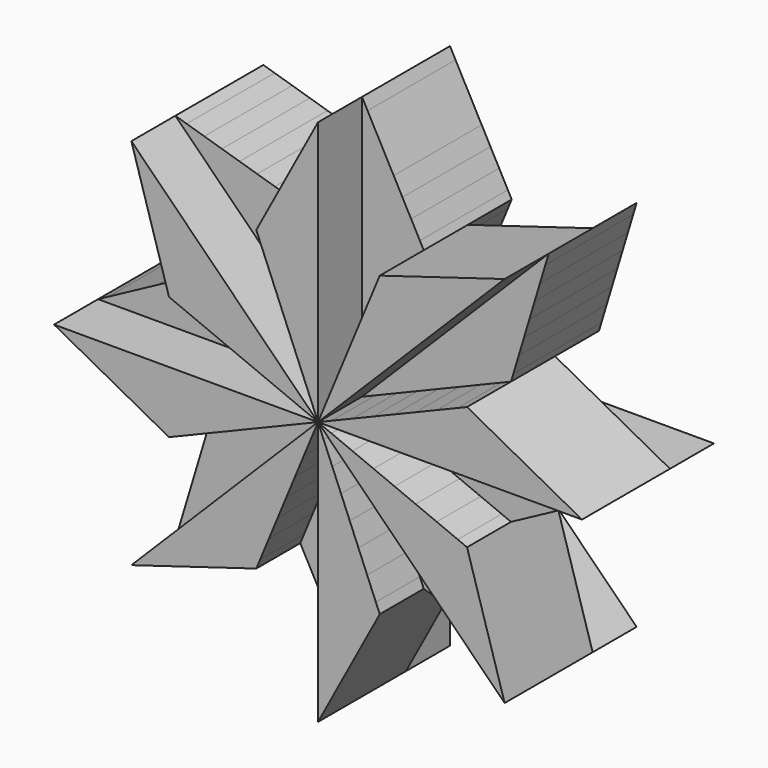
from build123d import *

# Parameters (mm, degrees)
F1_DEPTH = 7.5
F2_DEPTH = 15


with BuildPart() as f1:
    # F0 (on Front) → F1 (new body, symmetric)
    with BuildSketch(Plane.XZ):
        Polygon((24.9938242193, 23.9216168059), (1.8303725462, 0.7581651328), (4.7007746248, 1.9471246032), (24.2692816152, 21.5156315937), align=None)
        Polygon((25.4558441227, 25.4558441227), (0, 0), (1.8303725462, 0.7581651328), (24.9938242193, 23.9216168059), align=None)
        Polygon((24.2692816152, 21.5156315937), (4.7007746248, 1.9471246032), (7.5711767033, 3.1360840736), (23.5447390112, 19.1096463815), align=None)
        Polygon((16.182382939, 6.7029624849), (19.0527850176, 7.8919219553), (20.6465685949, 9.4857055326), (21.371111199, 11.8916907448), align=None)
        Polygon((22.8201964071, 16.7036611693), (10.4415787819, 4.325043544), (13.3119808605, 5.5140030145), (22.0956538031, 14.2976759571), align=None)
        Polygon((23.5447390112, 19.1096463815), (7.5711767033, 3.1360840736), (10.4415787819, 4.325043544), (22.8201964071, 16.7036611693), align=None)
        Polygon((13.3119808605, 5.5140030145), (16.182382939, 6.7029624849), (21.371111199, 11.8916907448), (22.0956538031, 14.2976759571), align=None)
        Polygon((19.0527850176, 7.8919219553), (20.3253497152, 8.419035512), (20.6465685949, 9.4857055326), align=None)
    extrude(amount=F1_DEPTH, both=True)


with BuildPart() as f1b:
    # F0 (on Front) → F1, piece 2 (new body, symmetric)
    with BuildSketch(Plane.XZ):
        Polygon((-23.9216168059, 24.9938242193), (-0.7581651328, 1.8303725462), (-1.9471246032, 4.7007746248), (-21.5156315937, 24.2692816152), align=None)
        Polygon((-5.5140030145, 13.3119808605), (-6.7029624849, 16.182382939), (-11.8916907448, 21.371111199), (-14.2976759571, 22.0956538031), align=None)
        Polygon((-6.7029624849, 16.182382939), (-7.8919219553, 19.0527850176), (-9.4857055326, 20.6465685949), (-11.8916907448, 21.371111199), align=None)
        Polygon((-25.4558441227, 25.4558441227), (0, 0), (-0.7581651328, 1.8303725462), (-23.9216168059, 24.9938242193), align=None)
        Polygon((-19.1096463815, 23.5447390112), (-3.1360840736, 7.5711767033), (-4.325043544, 10.4415787819), (-16.7036611693, 22.8201964071), align=None)
        Polygon((-21.5156315937, 24.2692816152), (-1.9471246032, 4.7007746248), (-3.1360840736, 7.5711767033), (-19.1096463815, 23.5447390112), align=None)
        Polygon((-16.7036611693, 22.8201964071), (-4.325043544, 10.4415787819), (-5.5140030145, 13.3119808605), (-14.2976759571, 22.0956538031), align=None)
        Polygon((-7.8919219553, 19.0527850176), (-8.419035512, 20.3253497152), (-9.4857055326, 20.6465685949), align=None)
    extrude(amount=F1_DEPTH, both=True)


with BuildPart() as f1c:
    # F0 (on Front) → F1, piece 3 (new body, symmetric)
    with BuildSketch(Plane.XZ):
        Polygon((-24.9938242193, -23.9216168059), (-1.8303725462, -0.7581651328), (-4.7007746248, -1.9471246032), (-24.2692816152, -21.5156315937), align=None)
        Polygon((-22.8201964071, -16.7036611693), (-10.4415787819, -4.325043544), (-13.3119808605, -5.5140030145), (-22.0956538031, -14.2976759571), align=None)
        Polygon((-13.3119808605, -5.5140030145), (-16.182382939, -6.7029624849), (-21.371111199, -11.8916907448), (-22.0956538031, -14.2976759571), align=None)
        Polygon((-23.5447390112, -19.1096463815), (-7.5711767033, -3.1360840736), (-10.4415787819, -4.325043544), (-22.8201964071, -16.7036611693), align=None)
        Polygon((-24.2692816152, -21.5156315937), (-4.7007746248, -1.9471246032), (-7.5711767033, -3.1360840736), (-23.5447390112, -19.1096463815), align=None)
        Polygon((-16.182382939, -6.7029624849), (-19.0527850176, -7.8919219553), (-20.6465685949, -9.4857055326), (-21.371111199, -11.8916907448), align=None)
        Polygon((-25.4558441227, -25.4558441227), (0, 0), (-1.8303725462, -0.7581651328), (-24.9938242193, -23.9216168059), align=None)
        Polygon((-19.0527850176, -7.8919219553), (-20.3253497152, -8.419035512), (-20.6465685949, -9.4857055326), align=None)
    extrude(amount=F1_DEPTH, both=True)


with BuildPart() as f1d:
    # F0 (on Front) → F1, piece 4 (new body, symmetric)
    with BuildSketch(Plane.XZ):
        Polygon((13.3119808605, -5.5140030145), (16.182382939, -6.7029624849), (23.5203528157, -6.7029624849), (25.7339702633, -5.5140030145), align=None)
        Polygon((36, 0), (0, 0), (1.8303725462, -0.7581651328), (34.5884400537, -0.7581651328), align=None)
        Polygon((32.3748226061, -1.9471246032), (4.7007746248, -1.9471246032), (7.5711767033, -3.1360840736), (30.1612051585, -3.1360840736), align=None)
        Polygon((34.5884400537, -0.7581651328), (1.8303725462, -0.7581651328), (4.7007746248, -1.9471246032), (32.3748226061, -1.9471246032), align=None)
        Polygon((27.9475877109, -4.325043544), (10.4415787819, -4.325043544), (13.3119808605, -5.5140030145), (25.7339702633, -5.5140030145), align=None)
        Polygon((16.182382939, -6.7029624849), (19.0527850176, -7.8919219553), (21.3067353682, -7.8919219553), (23.5203528157, -6.7029624849), align=None)
        Polygon((30.1612051585, -3.1360840736), (7.5711767033, -3.1360840736), (10.4415787819, -4.325043544), (27.9475877109, -4.325043544), align=None)
        Polygon((19.0527850176, -7.8919219553), (20.3253497152, -8.419035512), (21.3067353682, -7.8919219553), align=None)
    extrude(amount=F1_DEPTH, both=True)


with BuildPart() as f1e:
    # F0 (on Front) → F1, piece 5 (new body, symmetric)
    with BuildSketch(Plane.XZ):
        Polygon((-32.3748226061, 1.9471246032), (-4.7007746248, 1.9471246032), (-7.5711767033, 3.1360840736), (-30.1612051585, 3.1360840736), align=None)
        Polygon((-30.1612051585, 3.1360840736), (-7.5711767033, 3.1360840736), (-10.4415787819, 4.325043544), (-27.9475877109, 4.325043544), align=None)
        Polygon((-13.3119808605, 5.5140030145), (-16.182382939, 6.7029624849), (-23.5203528157, 6.7029624849), (-25.7339702633, 5.5140030145), align=None)
        Polygon((-27.9475877109, 4.325043544), (-10.4415787819, 4.325043544), (-13.3119808605, 5.5140030145), (-25.7339702633, 5.5140030145), align=None)
        Polygon((-34.5884400537, 0.7581651328), (-1.8303725462, 0.7581651328), (-4.7007746248, 1.9471246032), (-32.3748226061, 1.9471246032), align=None)
        Polygon((-16.182382939, 6.7029624849), (-19.0527850176, 7.8919219553), (-21.3067353682, 7.8919219553), (-23.5203528157, 6.7029624849), align=None)
        Polygon((-36, 0), (0, 0), (-1.8303725462, 0.7581651328), (-34.5884400537, 0.7581651328), align=None)
        Polygon((-19.0527850176, 7.8919219553), (-20.3253497152, 8.419035512), (-21.3067353682, 7.8919219553), align=None)
    extrude(amount=F1_DEPTH, both=True)


with BuildPart() as f1f:
    # F0 (on Front) → F1, piece 6 (new body, symmetric)
    with BuildSketch(Plane.XZ):
        Polygon((5.5140030145, -13.3119808605), (6.7029624849, -16.182382939), (11.8916907448, -21.371111199), (14.2976759571, -22.0956538031), align=None)
        Polygon((6.7029624849, -16.182382939), (7.8919219553, -19.0527850176), (9.4857055326, -20.6465685949), (11.8916907448, -21.371111199), align=None)
        Polygon((16.7036611693, -22.8201964071), (4.325043544, -10.4415787819), (5.5140030145, -13.3119808605), (14.2976759571, -22.0956538031), align=None)
        Polygon((25.4558441227, -25.4558441227), (0, 0), (0.7581651328, -1.8303725462), (23.9216168059, -24.9938242193), align=None)
        Polygon((19.1096463815, -23.5447390112), (3.1360840736, -7.5711767033), (4.325043544, -10.4415787819), (16.7036611693, -22.8201964071), align=None)
        Polygon((23.9216168059, -24.9938242193), (0.7581651328, -1.8303725462), (1.9471246032, -4.7007746248), (21.5156315937, -24.2692816152), align=None)
        Polygon((21.5156315937, -24.2692816152), (1.9471246032, -4.7007746248), (3.1360840736, -7.5711767033), (19.1096463815, -23.5447390112), align=None)
        Polygon((7.8919219553, -19.0527850176), (8.419035512, -20.3253497152), (9.4857055326, -20.6465685949), align=None)
    extrude(amount=F1_DEPTH, both=True)


with BuildPart() as f1g:
    # F0 (on Front) → F1, piece 7 (new body, symmetric)
    with BuildSketch(Plane.XZ):
        Polygon((-4.325043544, -27.9475877109), (-4.325043544, -10.4415787819), (-5.5140030145, -13.3119808605), (-5.5140030145, -25.7339702633), align=None)
        Polygon((-1.9471246032, -32.3748226061), (-1.9471246032, -4.7007746248), (-3.1360840736, -7.5711767033), (-3.1360840736, -30.1612051585), align=None)
        Polygon((0, -36), (0, 0), (-0.7581651328, -1.8303725462), (-0.7581651328, -34.5884400537), align=None)
        Polygon((-6.7029624849, -16.182382939), (-7.8919219553, -19.0527850176), (-7.8919219553, -21.3067353682), (-6.7029624849, -23.5203528157), align=None)
        Polygon((-5.5140030145, -13.3119808605), (-6.7029624849, -16.182382939), (-6.7029624849, -23.5203528157), (-5.5140030145, -25.7339702633), align=None)
        Polygon((-3.1360840736, -30.1612051585), (-3.1360840736, -7.5711767033), (-4.325043544, -10.4415787819), (-4.325043544, -27.9475877109), align=None)
        Polygon((-0.7581651328, -34.5884400537), (-0.7581651328, -1.8303725462), (-1.9471246032, -4.7007746248), (-1.9471246032, -32.3748226061), align=None)
        Polygon((-7.8919219553, -19.0527850176), (-8.419035512, -20.3253497152), (-7.8919219553, -21.3067353682), align=None)
    extrude(amount=F1_DEPTH, both=True)


with BuildPart() as f1h:
    # F0 (on Front) → F1, piece 8 (new body, symmetric)
    with BuildSketch(Plane.XZ):
        Polygon((6.7029624849, 16.182382939), (7.8919219553, 19.0527850176), (7.8919219553, 21.3067353682), (6.7029624849, 23.5203528157), align=None)
        Polygon((4.325043544, 27.9475877109), (4.325043544, 10.4415787819), (5.5140030145, 13.3119808605), (5.5140030145, 25.7339702633), align=None)
        Polygon((5.5140030145, 13.3119808605), (6.7029624849, 16.182382939), (6.7029624849, 23.5203528157), (5.5140030145, 25.7339702633), align=None)
        Polygon((0.7581651328, 34.5884400537), (0.7581651328, 1.8303725462), (1.9471246032, 4.7007746248), (1.9471246032, 32.3748226061), align=None)
        Polygon((1.9471246032, 32.3748226061), (1.9471246032, 4.7007746248), (3.1360840736, 7.5711767033), (3.1360840736, 30.1612051585), align=None)
        Polygon((3.1360840736, 30.1612051585), (3.1360840736, 7.5711767033), (4.325043544, 10.4415787819), (4.325043544, 27.9475877109), align=None)
        Polygon((0, 36), (0, 0), (0.7581651328, 1.8303725462), (0.7581651328, 34.5884400537), align=None)
        Polygon((7.8919219553, 19.0527850176), (8.419035512, 20.3253497152), (7.8919219553, 21.3067353682), align=None)
    extrude(amount=F1_DEPTH, both=True)


with BuildPart() as f2:
    # F0 (on Front) → F2 (new body)
    with BuildSketch(Plane.XZ):
        Polygon((0.7581651328, 1.8303725462), (0, 0), (25.4558441227, 25.4558441227), (8.419035512, 20.3253497152), (7.8919219553, 19.0527850176), (6.7029624849, 16.182382939), (5.5140030145, 13.3119808605), (4.325043544, 10.4415787819), (3.1360840736, 7.5711767033), (1.9471246032, 4.7007746248), align=None)
    extrude(amount=F2_DEPTH)


with BuildPart() as f2b:
    # F0 (on Front) → F2, piece 2 (new body)
    with BuildSketch(Plane.XZ):
        Polygon((-0.7581651328, 1.8303725462), (0, 0), (0, 36), (-8.419035512, 20.3253497152), (-7.8919219553, 19.0527850176), (-6.7029624849, 16.182382939), (-5.5140030145, 13.3119808605), (-4.325043544, 10.4415787819), (-3.1360840736, 7.5711767033), (-1.9471246032, 4.7007746248), align=None)
    extrude(amount=F2_DEPTH)


with BuildPart() as f2c:
    # F0 (on Front) → F2, piece 3 (new body)
    with BuildSketch(Plane.XZ):
        Polygon((-1.8303725462, 0.7581651328), (0, 0), (-25.4558441227, 25.4558441227), (-20.3253497152, 8.419035512), (-19.0527850176, 7.8919219553), (-16.182382939, 6.7029624849), (-13.3119808605, 5.5140030145), (-10.4415787819, 4.325043544), (-7.5711767033, 3.1360840736), (-4.7007746248, 1.9471246032), align=None)
    extrude(amount=F2_DEPTH)


with BuildPart() as f2d:
    # F0 (on Front) → F2, piece 4 (new body)
    with BuildSketch(Plane.XZ):
        Polygon((-1.8303725462, -0.7581651328), (0, 0), (-36, 0), (-20.3253497152, -8.419035512), (-19.0527850176, -7.8919219553), (-16.182382939, -6.7029624849), (-13.3119808605, -5.5140030145), (-10.4415787819, -4.325043544), (-7.5711767033, -3.1360840736), (-4.7007746248, -1.9471246032), align=None)
    extrude(amount=F2_DEPTH)


with BuildPart() as f2e:
    # F0 (on Front) → F2, piece 5 (new body)
    with BuildSketch(Plane.XZ):
        Polygon((-0.7581651328, -1.8303725462), (0, 0), (-25.4558441227, -25.4558441227), (-8.419035512, -20.3253497152), (-7.8919219553, -19.0527850176), (-6.7029624849, -16.182382939), (-5.5140030145, -13.3119808605), (-4.325043544, -10.4415787819), (-3.1360840736, -7.5711767033), (-1.9471246032, -4.7007746248), align=None)
    extrude(amount=F2_DEPTH)


with BuildPart() as f2f:
    # F0 (on Front) → F2, piece 6 (new body)
    with BuildSketch(Plane.XZ):
        Polygon((1.8303725462, -0.7581651328), (0, 0), (25.4558441227, -25.4558441227), (20.3253497152, -8.419035512), (19.0527850176, -7.8919219553), (16.182382939, -6.7029624849), (13.3119808605, -5.5140030145), (10.4415787819, -4.325043544), (7.5711767033, -3.1360840736), (4.7007746248, -1.9471246032), align=None)
    extrude(amount=F2_DEPTH)


with BuildPart() as f2g:
    # F0 (on Front) → F2, piece 7 (new body)
    with BuildSketch(Plane.XZ):
        Polygon((1.8303725462, 0.7581651328), (0, 0), (36, 0), (20.3253497152, 8.419035512), (19.0527850176, 7.8919219553), (16.182382939, 6.7029624849), (13.3119808605, 5.5140030145), (10.4415787819, 4.325043544), (7.5711767033, 3.1360840736), (4.7007746248, 1.9471246032), align=None)
    extrude(amount=F2_DEPTH)


with BuildPart() as f2h:
    # F0 (on Front) → F2, piece 8 (new body)
    with BuildSketch(Plane.XZ):
        Polygon((0.7581651328, -1.8303725462), (0, 0), (0, -36), (8.419035512, -20.3253497152), (7.8919219553, -19.0527850176), (6.7029624849, -16.182382939), (5.5140030145, -13.3119808605), (4.325043544, -10.4415787819), (3.1360840736, -7.5711767033), (1.9471246032, -4.7007746248), align=None)
    extrude(amount=F2_DEPTH)


solid = Compound([f1.part, f1b.part, f1c.part, f1d.part, f1e.part, f1f.part, f1g.part, f1h.part, f2.part, f2b.part, f2c.part, f2d.part, f2e.part, f2f.part, f2g.part, f2h.part])
